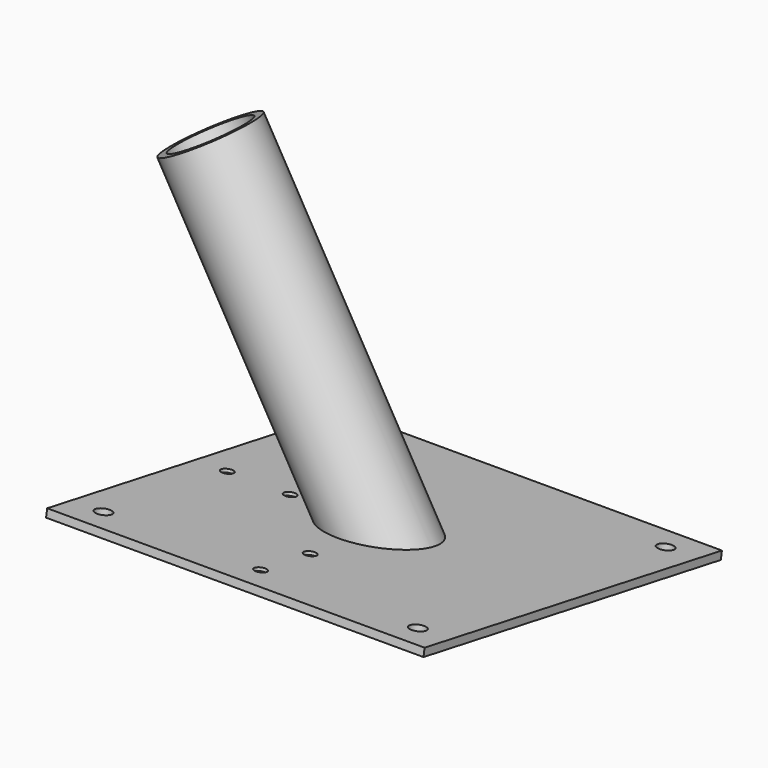
from build123d import *

# Parameters (mm, degrees)
F2_W          = 304.8
F2_H          = 304.8
F3_DEPTH      = 6.35
F5_R          = 36.5125
F5_R_2        = 30.1625
F6_DEPTH      = 292.1
F6_DEPTH_BACK = 12.7
F8_DEPTH      = 50.8
F8_DEPTH_BACK = 50.8
F9_R          = 4.7625
F10_DEPTH     = 2.54
F11_R         = 6.35
F12_DEPTH     = 25.4


with BuildPart() as f3:
    # F2 (on line) → F3 (new body)
    with BuildSketch(Plane(origin=(0, 0, 0), x_dir=(1, 0, 0), z_dir=(0, 0.1736481777, 0.984807753))):
        Rectangle(F2_W, F2_H)
    extrude(amount=F3_DEPTH)

    # F5 (on line) → F6 (join, two sides)
    with BuildSketch(Plane(origin=(6.35, 0, -10.9985226281), x_dir=(0.8660254038, 0, 0.5), z_dir=(0.5, 0, -0.8660254038))) as f6_sk:
        Circle(F5_R)
        Circle(F5_R_2, mode=Mode.SUBTRACT)
    extrude(amount=-F6_DEPTH)
    extrude(f6_sk.sketch, amount=F6_DEPTH_BACK)

    # F7 (on Right) → F8 (cut, two sides)
    with BuildSketch(Plane.YZ) as f8_sk:
        Polygon((56.8870845878, -43.9009879504), (56.8870845878, -10.0307278667), (-39.12624161, 6.8990120496), (-39.12624161, -43.9009879504), align=None)
    extrude(amount=-F8_DEPTH, mode=Mode.SUBTRACT)
    extrude(f8_sk.sketch, amount=F8_DEPTH_BACK, mode=Mode.SUBTRACT)

    # F9 (on face) → F10 (cut)
    with BuildSketch(Plane(origin=(0, 1.1026659282, 6.2535292316), x_dir=(1, 0, 0), z_dir=(0, 0.1736481777, 0.984807753))):
        with Locations((0, -76.2)):
            Circle(F9_R)
        with Locations((0, -127)):
            Circle(F9_R)
        with Locations((-127, 0)):
            Circle(F9_R)
        with Locations((-76.2, 0)):
            Circle(F9_R)
    extrude(amount=-F10_DEPTH, mode=Mode.SUBTRACT)

    # F11 (on face) → F12 (cut)
    with BuildSketch(Plane(origin=(0, 1.1026659282, 6.2535292316), x_dir=(1, 0, 0), z_dir=(0, 0.1736481777, 0.984807753))):
        with Locations((127, 127)):
            Circle(F11_R)
        with Locations((127, -127)):
            Circle(F11_R)
        with Locations((-127, -127)):
            Circle(F11_R)
        with Locations((-127, 127)):
            Circle(F11_R)
    extrude(amount=-F12_DEPTH, mode=Mode.SUBTRACT)


solid = f3.part
